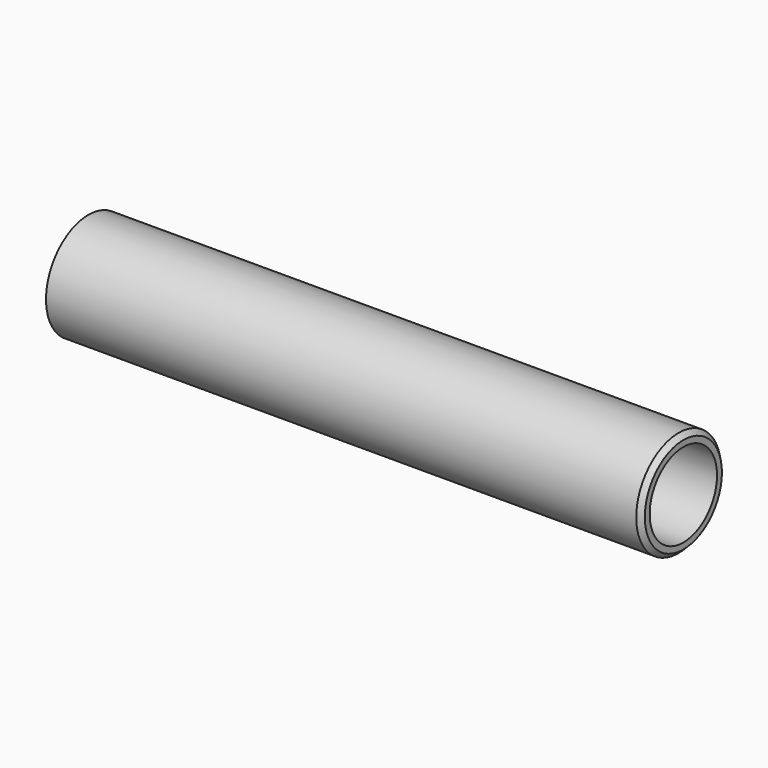
from build123d import *

# Parameters (mm, degrees)
F0_R     = 89
F0_R_2   = 70.75
F1_DEPTH = 1000
F2_SIZE  = 8


with BuildPart() as f1:
    # F0 (on Right) → F1 (new body)
    with BuildSketch(Plane.YZ):
        Circle(F0_R)
        Circle(F0_R_2, mode=Mode.SUBTRACT)
    extrude(amount=-F1_DEPTH)

    # F2
    f2_edges = [f1.edges().sort_by_distance(p)[0] for p in [
        (0, -89, 0),
    ]]
    chamfer(f2_edges, length=F2_SIZE)


solid = f1.part
